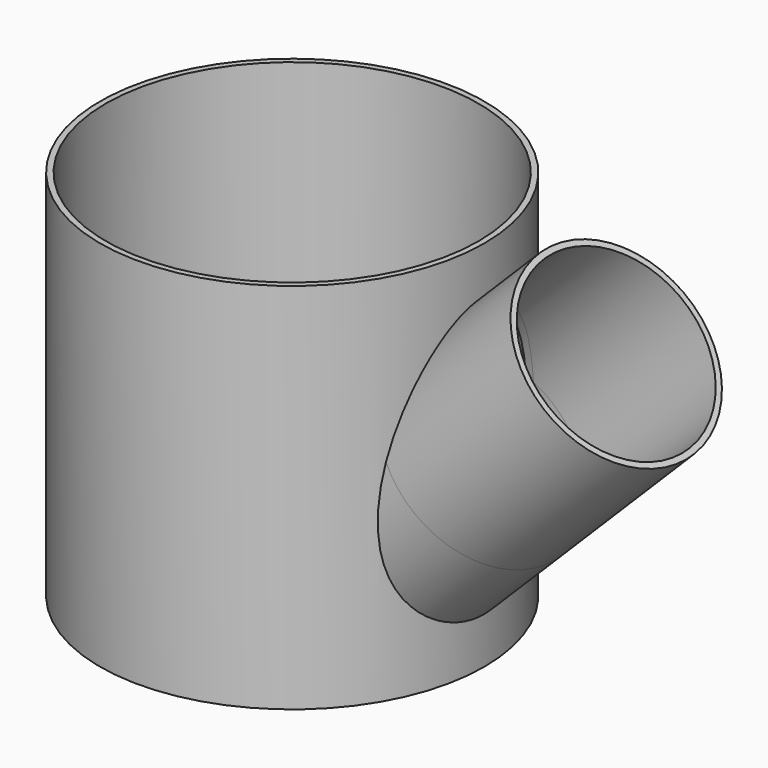
from build123d import *

# Parameters (mm, degrees)
F0_R          = 52.3875
F0_R_2        = 50.8
F1_DEPTH      = 101.6
F5_R          = 26.9875
F5_R_2        = 25.4
F6_DEPTH      = 50.8
F6_DEPTH_BACK = 50.8
F7_DEPTH      = 105.8050688415
F7_DEPTH_BACK = 4.2050688415
F8_DEPTH      = 50.8
F8_DEPTH_BACK = 77.7885001414


with BuildPart() as f1:
    # F0 (on Top) → F1 (new body)
    with BuildSketch(Plane.XY):
        Circle(F0_R)
        Circle(F0_R_2, mode=Mode.SUBTRACT)
    extrude(amount=F1_DEPTH)

    # F5 (on line) → F6 (join, two sides)
    with BuildSketch(Plane(origin=(51.59375, 0, 51.59375), x_dir=(0.7071067812, 0, -0.7071067812), z_dir=(0.7071067812, 0, 0.7071067812))) as f6_sk:
        with Locations((1.1225320151, 0)):
            Circle(F5_R)
        with Locations((1.1225320151, 0)):
            Circle(F5_R_2, mode=Mode.SUBTRACT)
    extrude(amount=F6_DEPTH)
    extrude(f6_sk.sketch, amount=-F6_DEPTH_BACK)

    # F0 (on Top) → F7 (cut, two sides)
    with BuildSketch(Plane.XY) as f7_sk:
        Circle(F0_R_2)
    extrude(amount=F7_DEPTH, mode=Mode.SUBTRACT)
    extrude(f7_sk.sketch, amount=-F7_DEPTH_BACK, mode=Mode.SUBTRACT)

    # F5 (on line) → F8 (cut, two sides)
    with BuildSketch(Plane(origin=(51.59375, 0, 51.59375), x_dir=(0.7071067812, 0, -0.7071067812), z_dir=(0.7071067812, 0, 0.7071067812))) as f8_sk:
        with Locations((1.1225320151, 0)):
            Circle(F5_R_2)
    extrude(amount=-F8_DEPTH, mode=Mode.SUBTRACT)
    extrude(f8_sk.sketch, amount=F8_DEPTH_BACK, mode=Mode.SUBTRACT)


solid = f1.part
